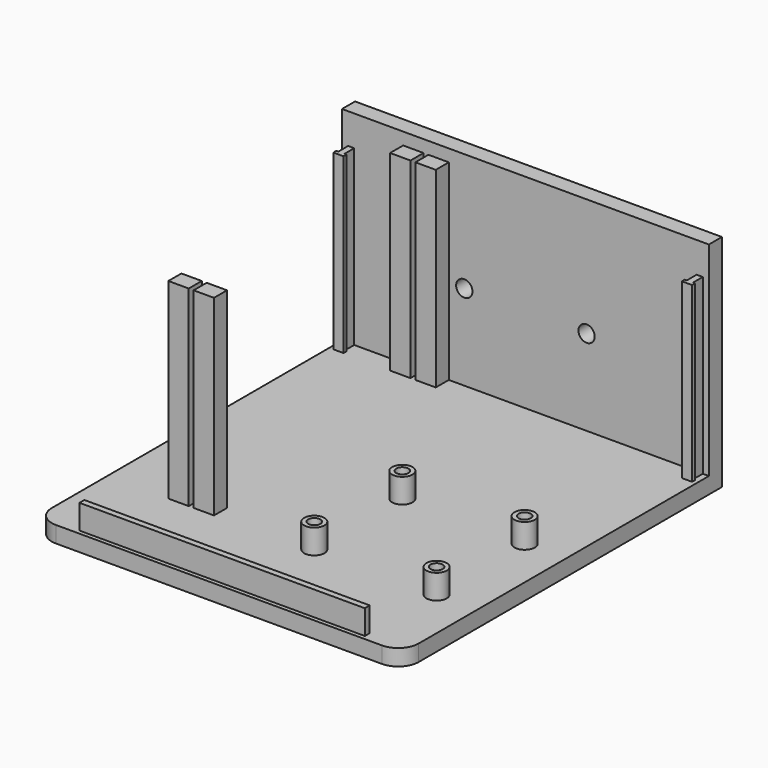
from build123d import *

# Parameters (mm, degrees)
PAD_DEPTH         = 4
SKETCH003_W       = 90
SKETCH003_H       = 4
PAD001_DEPTH      = 54
SKETCH002_W       = 5
SKETCH002_H       = 4
PAD002_DEPTH      = 51
SKETCH006_R       = 2
POCKET_DEPTH      = 84.001
POCKET_DEPTH_BACK = 14.001
SKETCH005_W       = 70
SKETCH005_H       = 1.5
PAD003_DEPTH      = 10
SKETCH004_W       = 1.5
SKETCH004_H       = 3
SKETCH004_W_2     = 2.5
SKETCH004_H_2     = 0.9
PAD004_DEPTH      = 46.5
SKETCH_R          = 2.5
PAD005_DEPTH      = 10
POCKET001_START   = 4
SKETCH007_R       = 1.5
POCKET001_DEPTH   = 20


with BuildPart() as part:
    # Sketch001 → Pad (new body)
    with BuildSketch(Plane.XY):
        with BuildLine():
            Line((0, 94), (0, 5))
            ThreePointArc((0, 5), (1.464466, 1.464466), (5, 0))
            Line((5, 0), (85, 0))
            ThreePointArc((85, 0), (88.535534, 1.464466), (90, 5))
            Line((90, 5), (90, 94))
            Line((90, 94), (0, 94))
        make_face()
    extrude(amount=PAD_DEPTH)

    # Sketch003 → Pad001 (join)
    with BuildSketch(Plane.XY):
        with Locations((45, 96)):
            Rectangle(SKETCH003_W, SKETCH003_H)
    extrude(amount=PAD001_DEPTH)

    # Sketch002 → Pad002 (join)
    with BuildSketch(Plane.XY):
        with Locations((17.5, 92)):
            Rectangle(SKETCH002_W, SKETCH002_H)
        with Locations((17.5, 24)):
            Rectangle(SKETCH002_W, SKETCH002_H)
        with Locations((23.7, 92)):
            Rectangle(SKETCH002_W, SKETCH002_H)
        with Locations((23.7, 24)):
            Rectangle(SKETCH002_W, SKETCH002_H)
    extrude(amount=PAD002_DEPTH)

    # Sketch006 → Pocket (cut, two sides)
    with BuildSketch(Plane(origin=(0, 84, 0), x_dir=(-1, 0, 0), z_dir=(0, 1, 0))) as pocket_sk:
        with Locations((-30, 25)):
            Circle(SKETCH006_R)
        with Locations((-60, 25)):
            Circle(SKETCH006_R)
    extrude(amount=-POCKET_DEPTH, mode=Mode.SUBTRACT)
    extrude(pocket_sk.sketch, amount=POCKET_DEPTH_BACK, mode=Mode.SUBTRACT)

    # Sketch005 → Pad003 (join)
    with BuildSketch(Plane.XY):
        with Locations((45, 1.75)):
            Rectangle(SKETCH005_W, SKETCH005_H)
    extrude(amount=PAD003_DEPTH)

    # Sketch004 → Pad004 (join)
    with BuildSketch(Plane.XY):
        with Locations((2.25, 92.5)):
            Rectangle(SKETCH004_W, SKETCH004_H)
        with Locations((2.25, 90.55)):
            Rectangle(SKETCH004_W_2, SKETCH004_H_2)
        with Locations((87.75, 92.5)):
            Rectangle(SKETCH004_W, SKETCH004_H)
        with Locations((87.75, 90.55)):
            Rectangle(SKETCH004_W_2, SKETCH004_H_2)
    extrude(amount=PAD004_DEPTH)

    # Sketch → Pad005 (join)
    with BuildSketch(Plane.XY):
        with Locations((80, 50)):
            Circle(SKETCH_R)
        with Locations((80, 23)):
            Circle(SKETCH_R)
        with Locations((50, 50)):
            Circle(SKETCH_R)
        with Locations((50, 23)):
            Circle(SKETCH_R)
    extrude(amount=PAD005_DEPTH)

    # Sketch007 → Pocket001 (cut)
    with BuildSketch(Plane.XY.offset(POCKET001_START)):
        with Locations((80, 50)):
            Circle(SKETCH007_R)
        with Locations((80, 23)):
            Circle(SKETCH007_R)
        with Locations((50, 50)):
            Circle(SKETCH007_R)
        with Locations((50, 23)):
            Circle(SKETCH007_R)
    extrude(amount=POCKET001_DEPTH, mode=Mode.SUBTRACT)


solid = part.part
